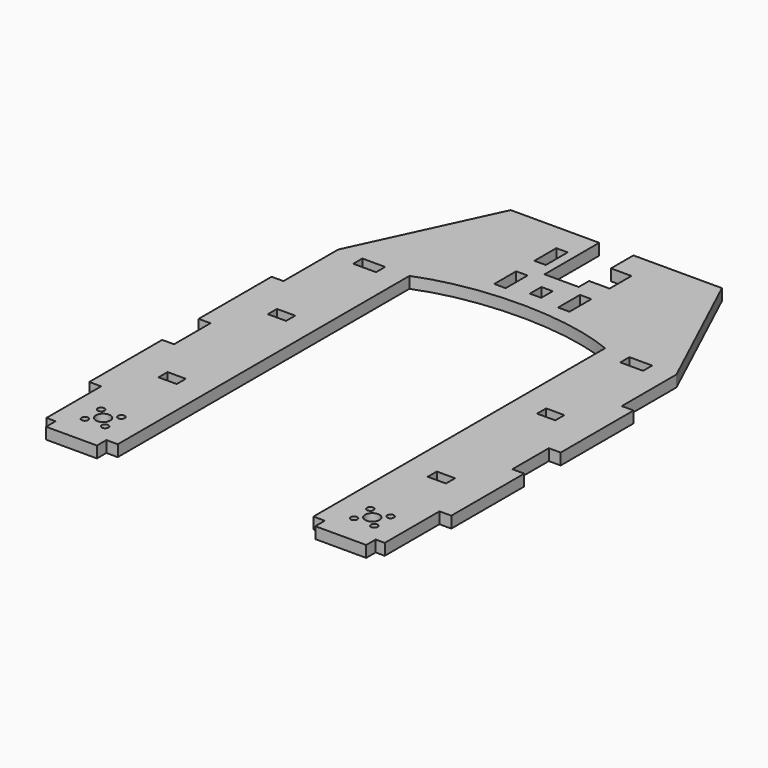
from build123d import *

# Parameters (mm, degrees)
F0_R     = 1.85
F0_R_2   = 4
F0_W     = 10.16
F0_H     = 6.35
F0_W_2   = 12.7
F0_W_3   = 6.35
F0_H_2   = 15.24
F0_H_3   = 8.021719
F1_DEPTH = 6.35


with BuildPart() as f1:
    # F0 (on Top) → F1 (new body)
    with BuildSketch(Plane.XY):
        with BuildLine():
            Line((-60.850162, -6.604), (-60.850162, 0))
            Line((-60.850162, 0), (-54.533258, 0))
            Line((-54.533258, 0), (-54.533258, 203.2))
            add(Edge.make_bspline(
                [(-54.533258, 203.2), (-23.033295, 215.9), (23.033295, 215.9), (54.533258, 203.2)],
                knots=[0, 0, 0, 0, 109.066515, 109.066515, 109.066515, 109.066515], degree=3))
            Line((54.533258, 203.2), (54.533258, 0))
            Line((54.533258, 0), (60.850162, 0))
            Line((60.850162, 0), (60.850162, -6.604))
            Line((60.850162, -6.604), (89.198314, -6.604))
            Line((89.198314, -6.604), (89.198314, 0))
            Line((89.198314, 0), (94.278314, 0))
            Line((94.278314, 0), (94.278314, 38.1))
            Line((94.278314, 38.1), (100.882314, 38.1))
            Line((100.882314, 38.1), (100.882314, 88.9))
            Line((100.882314, 88.9), (94.278314, 88.9))
            Line((94.278314, 88.9), (94.278314, 114.3))
            Line((94.278314, 114.3), (100.882314, 114.3))
            Line((100.882314, 114.3), (100.882314, 165.1))
            Line((100.882314, 165.1), (94.278314, 165.1))
            Line((94.278314, 165.1), (94.278314, 203.2))
            Line((94.278314, 203.2), (58.854451, 279.166719))
            Line((58.854451, 279.166719), (9.525, 279.166719))
            Line((9.525, 279.166719), (9.525, 263.525))
            Line((9.525, 263.525), (20.955, 263.525))
            Line((20.955, 263.525), (20.955, 248.285))
            Line((20.955, 248.285), (9.525, 248.285))
            Line((9.525, 248.285), (9.525, 241.066719))
            Line((9.525, 241.066719), (-9.525, 241.066719))
            Line((-9.525, 241.066719), (-9.525, 279.166719))
            Line((-9.525, 279.166719), (-58.854451, 279.166719))
            Line((-58.854451, 279.166719), (-94.278314, 203.2))
            Line((-94.278314, 203.2), (-94.278314, 165.1))
            Line((-94.278314, 165.1), (-100.882314, 165.1))
            Line((-100.882314, 165.1), (-100.882314, 114.3))
            Line((-100.882314, 114.3), (-94.278314, 114.3))
            Line((-94.278314, 114.3), (-94.278314, 88.9))
            Line((-94.278314, 88.9), (-100.882314, 88.9))
            Line((-100.882314, 88.9), (-100.882314, 38.1))
            Line((-100.882314, 38.1), (-94.278314, 38.1))
            Line((-94.278314, 38.1), (-94.278314, 0))
            Line((-94.278314, 0), (-89.198314, 0))
            Line((-89.198314, 0), (-89.198314, -6.604))
            Line((-89.198314, -6.604), (-60.850162, -6.604))
        make_face()
        with Locations((-80.681092, 9.743146)):
            Circle(F0_R, mode=Mode.SUBTRACT)
        with Locations((-80.681092, 21.056854)):
            Circle(F0_R, mode=Mode.SUBTRACT)
        with Locations((-69.367384, 9.743146)):
            Circle(F0_R, mode=Mode.SUBTRACT)
        with Locations((-75.024238, 15.4)):
            Circle(F0_R_2, mode=Mode.SUBTRACT)
        with Locations((-69.367384, 21.056854)):
            Circle(F0_R, mode=Mode.SUBTRACT)
        with Locations((-75.024238, 63.5)):
            Rectangle(F0_W, F0_H, mode=Mode.SUBTRACT)
        with Locations((69.367384, 9.743146)):
            Circle(F0_R, mode=Mode.SUBTRACT)
        with Locations((75.024238, 15.4)):
            Circle(F0_R_2, mode=Mode.SUBTRACT)
        with Locations((69.367384, 21.056854)):
            Circle(F0_R, mode=Mode.SUBTRACT)
        with Locations((80.681092, 9.743146)):
            Circle(F0_R, mode=Mode.SUBTRACT)
        with Locations((80.681092, 21.056854)):
            Circle(F0_R, mode=Mode.SUBTRACT)
        with Locations((75.024238, 63.5)):
            Rectangle(F0_W, F0_H, mode=Mode.SUBTRACT)
        with Locations((-75.024238, 139.7)):
            Rectangle(F0_W, F0_H, mode=Mode.SUBTRACT)
        with Locations((-74.405786, 200.025)):
            Rectangle(F0_W_2, F0_H, mode=Mode.SUBTRACT)
        with Locations((-17.78, 227.960319)):
            Rectangle(F0_W_3, F0_H_2, mode=Mode.SUBTRACT)
        with Locations((-17.78, 255.905)):
            Rectangle(F0_W_3, F0_H_2, mode=Mode.SUBTRACT)
        with Locations((75.024238, 139.7)):
            Rectangle(F0_W, F0_H, mode=Mode.SUBTRACT)
        with Locations((74.405786, 200.025)):
            Rectangle(F0_W_2, F0_H, mode=Mode.SUBTRACT)
        with Locations((0, 226.895859)):
            Rectangle(F0_W_3, F0_H_3, mode=Mode.SUBTRACT)
        with Locations((17.78, 227.960319)):
            Rectangle(F0_W_3, F0_H_2, mode=Mode.SUBTRACT)
    extrude(amount=F1_DEPTH)


solid = f1.part
